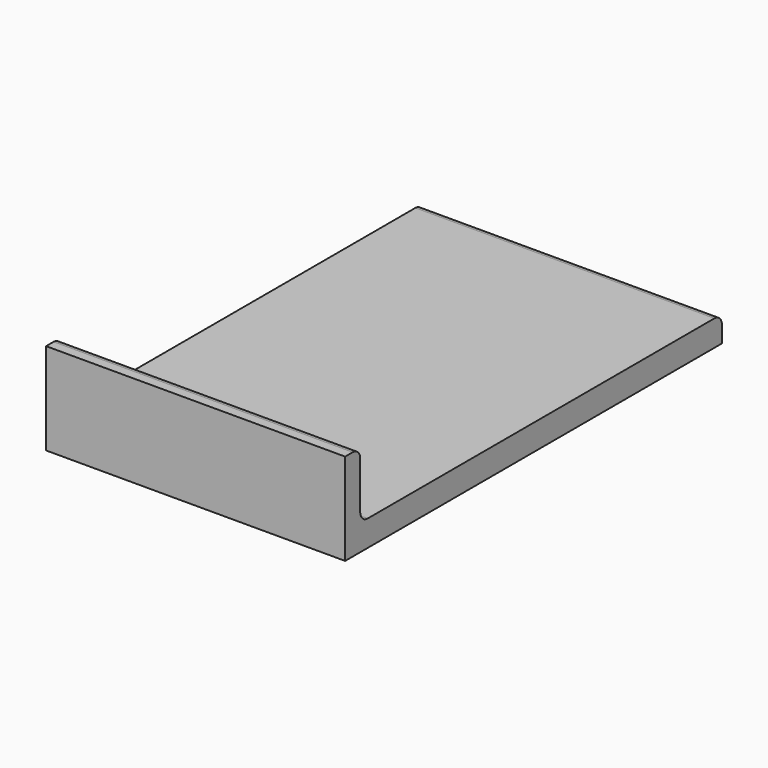
from build123d import *

# Parameters (mm, degrees)
F1_DEPTH = 403.225


with BuildPart() as f1:
    # F0 (on Right) → F1 (new body)
    with BuildSketch(Plane.YZ):
        with BuildLine():
            Line((0, 123.825), (0, 0))
            Line((0, 0), (635, 0))
            Line((635, 0), (635, 22.225))
            ThreePointArc((635, 22.225), (631.280256, 31.205256), (622.3, 34.925))
            Line((622.3, 34.925), (38.1, 34.925))
            ThreePointArc((38.1, 34.925), (29.119744, 38.644744), (25.4, 47.625))
            Line((25.4, 47.625), (25.4, 111.125))
            ThreePointArc((25.4, 111.125), (21.680256, 120.105256), (12.7, 123.825))
            Line((12.7, 123.825), (0, 123.825))
        make_face()
    extrude(amount=F1_DEPTH)


solid = f1.part
